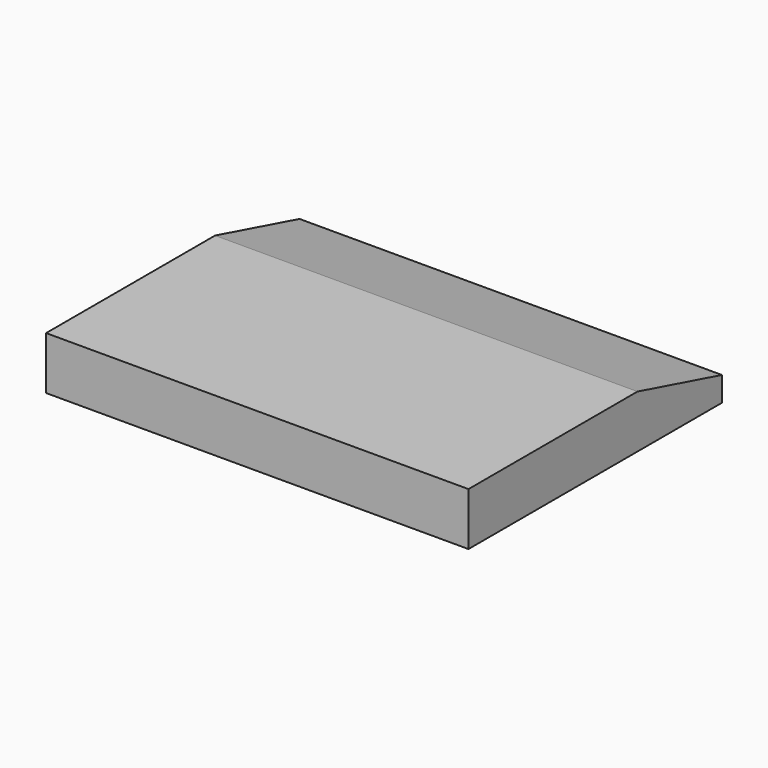
from build123d import *

# Parameters (mm, degrees)
F0_R     = 1.25
F1_DEPTH = 5
F2_W     = 40
F2_H     = 30
F3_DEPTH = 5
F4_SIZE2 = 2.6794919243
F4_SIZE  = 10
F5_DEPTH = 5
F6_R     = 1.5
F7_DEPTH = 3


with BuildPart() as f1:
    # F0 (on Top) → F1 (new body)
    with BuildSketch(Plane.XY):
        Circle(F0_R)
    extrude(amount=F1_DEPTH)

    # F2 (on face) → F3 (join)
    with BuildSketch(Plane.XY.offset(5)):
        Rectangle(F2_W, F2_H)
    extrude(amount=F3_DEPTH)

    # F4
    f4_edges = [f1.edges().sort_by_distance(p)[0] for p in [
        (0, 15, 10),
    ]]
    f4_side = f1.faces().sort_by_distance((0, 0, 10))[0]
    chamfer(f4_edges, length=F4_SIZE, length2=F4_SIZE2, reference=f4_side)

    # F5 (cut): a face of the model
    f5_faces = [f1.faces().sort_by_distance(p)[0] for p in [
        (0, 0, 0),
    ]]
    extrude(f5_faces, amount=-F5_DEPTH, mode=Mode.SUBTRACT)

    # F6 (on face) → F7 (cut)
    with BuildSketch(Plane(origin=(0, 0, 5), x_dir=(1, 0, 0), z_dir=(0, 0, -1))):
        Circle(F6_R)
    extrude(amount=-F7_DEPTH, mode=Mode.SUBTRACT)


solid = f1.part
